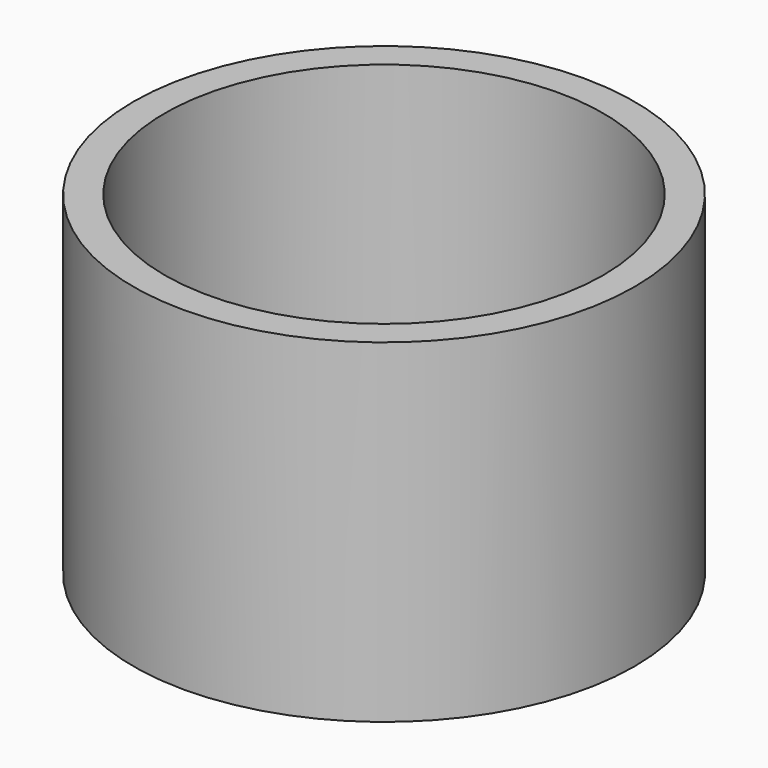
from build123d import *

# Parameters (mm, degrees)
F0_R     = 38.1
F0_R_2   = 33.3375
F1_DEPTH = 50.8
F3_DEPTH = 12.7
F4_R     = 3.175
F5_DEPTH = 25.4


with BuildPart() as f1:
    # F0 (on Top) → F1 (new body)
    with BuildSketch(Plane.XY):
        Circle(F0_R)
        Circle(F0_R_2, mode=Mode.SUBTRACT)
    extrude(amount=F1_DEPTH)

    # F2 (on Top) → F3 (join)
    with BuildSketch(Plane.XY):
        Polygon((-6.35, 35.346381), (-6.35, 6.35), (-35.763424, 6.35), (-35.763424, -6.35), (-6.35, -6.35), (-6.35, -35.284743), (6.35, -35.284743), (6.35, -6.35), (35.550121, -6.35), (35.550121, 6.35), (6.35, 6.35), (6.35, 35.346381), align=None)
    extrude(amount=F3_DEPTH)

    # F4 (on face) → F5 (cut)
    with BuildSketch(Plane.XY.offset(12.7)):
        with Locations((-19.05, 0)):
            Circle(F4_R)
        with Locations((19.05, 0)):
            Circle(F4_R)
        with Locations((0, 19.05)):
            Circle(F4_R)
        with Locations((0, -19.05)):
            Circle(F4_R)
    extrude(amount=-F5_DEPTH, mode=Mode.SUBTRACT)


solid = f1.part
